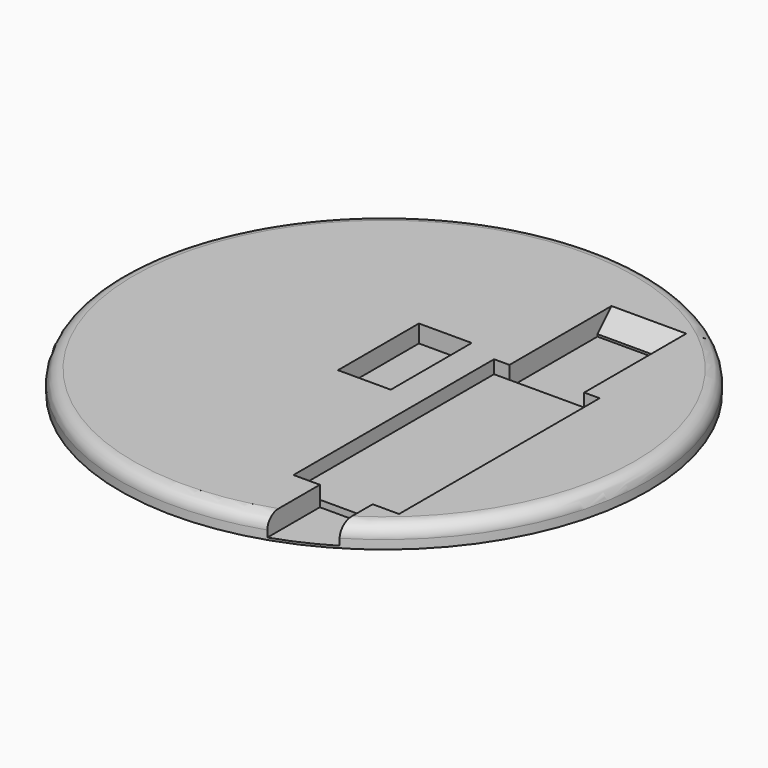
from build123d import *

# Parameters (mm, degrees)
SKETCH_R        = 60
PAD_DEPTH       = 5
SKETCH001_W     = 12
SKETCH001_H     = 23
POCKET_DEPTH    = 4
FILLET_R        = 3
SKETCH002_W     = 24
SKETCH002_H     = 57
POCKET001_DEPTH = 3
SKETCH003_W     = 17
SKETCH003_H     = 25
SKETCH003_W_2   = 12
SKETCH003_H_2   = 20
POCKET002_DEPTH = 4.5
CHAMFER_SIZE    = 4


with BuildPart() as part:
    # Sketch → Pad (new body)
    with BuildSketch(Plane.XY):
        Circle(SKETCH_R)
    extrude(amount=PAD_DEPTH)

    # Sketch001 (on Face3 of Pad) → Pocket (cut)
    with BuildSketch(Plane.XY.offset(5)):
        with Locations((0, 5.9)):
            Rectangle(SKETCH001_W, SKETCH001_H)
    extrude(amount=-POCKET_DEPTH, mode=Mode.SUBTRACT)

    # Fillet
    fillet_edges = [part.edges().sort_by_distance(p)[0] for p in [
        (-60, 0, 5),
    ]]
    fillet(fillet_edges, radius=FILLET_R)

    # Sketch002 (on Face4 of Fillet) → Pocket001 (cut)
    with BuildSketch(Plane.XY.offset(5)):
        with Locations((25, -13.5)):
            Rectangle(SKETCH002_W, SKETCH002_H)
    extrude(amount=-POCKET001_DEPTH, mode=Mode.SUBTRACT)

    # Sketch003 (on Face4 of Pocket001) → Pocket002 (cut)
    with BuildSketch(Plane.XY.offset(5)):
        with Locations((25, 27.5)):
            Rectangle(SKETCH003_W, SKETCH003_H)
        with Locations((25, -52)):
            Rectangle(SKETCH003_W_2, SKETCH003_H_2)
    extrude(amount=-POCKET002_DEPTH, mode=Mode.SUBTRACT)

    # Chamfer
    chamfer_edges = [part.edges().sort_by_distance(p)[0] for p in [
        (25, 40, 5),
    ]]
    chamfer(chamfer_edges, length=CHAMFER_SIZE)


solid = part.part
